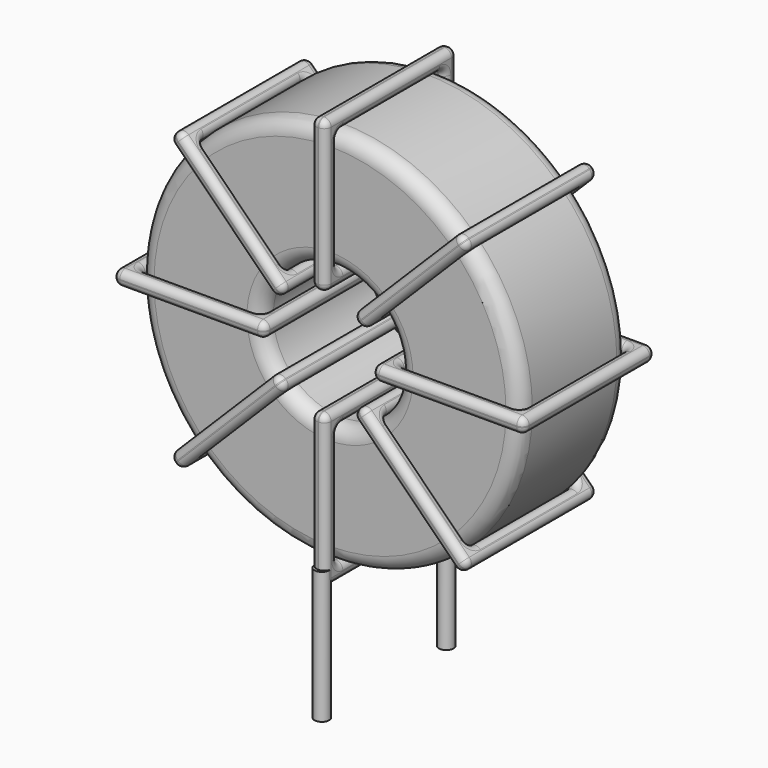
from build123d import *

# Parameters (mm, degrees)
SKETCH001_R       = 0.25
PAD001_DEPTH      = 0.5
PAD001_DEPTH_BACK = 4
SKETCH_R          = 6.5
SKETCH_R_2        = 2.333333
PAD_DEPTH         = 2.3
FILLET_R          = 0.5
SKETCH003_W       = 5.166667
SKETCH003_H       = 5.6
SKETCH003_W_2     = 4.166667
SKETCH003_H_2     = 4.6
PAD002_DEPTH      = 0.25
FILLET001_R       = 0.235
SKETCH004_W       = 5.166667
SKETCH004_H       = 5.6
SKETCH004_W_2     = 4.166667
SKETCH004_H_2     = 4.6
PAD003_DEPTH      = 0.25
FILLET002_R       = 0.235
SKETCH005_W       = 5.166667
SKETCH005_H       = 5.6
SKETCH005_W_2     = 4.166667
SKETCH005_H_2     = 4.6
PAD004_DEPTH      = 0.25
FILLET003_R       = 0.235
SKETCH006_W       = 5.166667
SKETCH006_H       = 5.6
SKETCH006_W_2     = 4.166667
SKETCH006_H_2     = 4.6
PAD005_DEPTH      = 0.25
FILLET004_R       = 0.235


with BuildPart() as pad001:
    # Sketch001 → Pad001 (new body, two sides)
    with BuildSketch(Plane.XY.offset(1)) as pad001_sk:
        Circle(SKETCH001_R)
        with Locations((0, -5.3)):
            Circle(SKETCH001_R)
    extrude(amount=PAD001_DEPTH)
    extrude(pad001_sk.sketch, amount=-PAD001_DEPTH_BACK)


with BuildPart() as fillet_body:
    # Sketch → Pad (new body, symmetric)
    with BuildSketch(Plane.XZ.offset(2.65)):
        with Locations((0, 8)):
            Circle(SKETCH_R)
        with Locations((0, 8)):
            Circle(SKETCH_R_2, mode=Mode.SUBTRACT)
    extrude(amount=PAD_DEPTH, both=True)

    # Fillet
    fillet_edges = [fillet_body.edges().sort_by_distance(p)[0] for p in [
        (-2.333333, -4.95, 8),
        (-6.5, -4.95, 8),
        (-6.5, -0.35, 8),
    ]]
    fillet(fillet_edges, radius=FILLET_R)


with BuildPart() as fillet001:
    # Sketch003 → Pad002 (new body, symmetric)
    with BuildSketch(Plane(origin=(0, 0.15, 8), x_dir=(1, 0, 0), z_dir=(0, 0, -1))):
        with Locations((-4.416666, 2.8)):
            Rectangle(SKETCH003_W, SKETCH003_H)
        with Locations((-4.416666, 2.8)):
            Rectangle(SKETCH003_W_2, SKETCH003_H_2, mode=Mode.SUBTRACT)
        with Locations((4.416666, 2.8)):
            Rectangle(SKETCH003_W, SKETCH003_H)
        with Locations((4.416666, 2.8)):
            Rectangle(SKETCH003_W_2, SKETCH003_H_2, mode=Mode.SUBTRACT)
    extrude(amount=PAD002_DEPTH, both=True)

    # Fillet001
    fillet001_edges = [fillet001.edges().sort_by_distance(p)[0] for p in [
        (-2.333333, -4.95, 8),
        (-2.333333, -0.35, 8),
        (-2.333333, -2.65, 8.25),
        (-2.333333, -2.65, 7.75),
        (-7, -5.45, 8),
        (-1.833333, -5.45, 8),
        (-4.416667, -5.45, 8.25),
        (-4.416667, -5.45, 7.75),
        (-1.833333, 0.15, 8),
        (-1.833333, -2.65, 8.25),
        (-1.833333, -2.65, 7.75),
        (2.333333, -4.95, 8),
        (6.5, -4.95, 8),
        (4.416667, -4.95, 8.25),
        (4.416667, -4.95, 7.75),
        (6.5, -0.35, 8),
        (6.5, -2.65, 8.25),
        (6.5, -2.65, 7.75),
        (1.833333, -5.45, 8),
        (7, -5.45, 8),
        (4.416667, -5.45, 8.25),
        (4.416667, -5.45, 7.75),
        (7, 0.15, 8),
        (7, -2.65, 8.25),
        (7, -2.65, 7.75),
        (-6.5, -4.95, 8),
        (-4.416667, -4.95, 8.25),
        (-4.416667, -4.95, 7.75),
        (2.333333, -0.35, 8),
        (2.333333, -2.65, 8.25),
        (2.333333, -2.65, 7.75),
        (4.416667, -0.35, 8.25),
        (4.416667, -0.35, 7.75),
        (1.833333, 0.15, 8),
        (4.416667, 0.15, 8.25),
        (4.416667, 0.15, 7.75),
        (1.833333, -2.65, 8.25),
        (1.833333, -2.65, 7.75),
        (-7, 0.15, 8),
        (-4.416667, 0.15, 8.25),
        (-4.416667, 0.15, 7.75),
        (-7, -2.65, 8.25),
        (-7, -2.65, 7.75),
        (-6.5, -0.35, 8),
        (-6.5, -2.65, 8.25),
        (-6.5, -2.65, 7.75),
        (-4.416667, -0.35, 8.25),
        (-4.416667, -0.35, 7.75),
    ]]
    fillet(fillet001_edges, radius=FILLET001_R)


with BuildPart() as fillet002:
    # Sketch004 → Pad003 (new body, symmetric)
    with BuildSketch(Plane(origin=(0, 0.15, 8), x_dir=(0.707108, 0, 0.707106), z_dir=(0.707106, 0, -0.707108))):
        with Locations((-4.416666, 2.8)):
            Rectangle(SKETCH004_W, SKETCH004_H)
        with Locations((-4.416666, 2.8)):
            Rectangle(SKETCH004_W_2, SKETCH004_H_2, mode=Mode.SUBTRACT)
        with Locations((4.416666, 2.8)):
            Rectangle(SKETCH004_W, SKETCH004_H)
        with Locations((4.416666, 2.8)):
            Rectangle(SKETCH004_W_2, SKETCH004_H_2, mode=Mode.SUBTRACT)
    extrude(amount=PAD003_DEPTH, both=True)

    # Fillet002
    fillet002_edges = [fillet002.edges().sort_by_distance(p)[0] for p in [
        (-4.596199, -4.95, 3.403811),
        (-1.649918, -0.35, 6.350086),
        (-3.299835, -0.35, 5.053726),
        (-2.946282, -0.35, 4.700172),
        (-4.949753, -5.45, 3.050258),
        (-1.296364, -5.45, 6.703639),
        (-3.299835, -5.45, 5.053726),
        (-2.946282, -5.45, 4.700172),
        (-1.296364, 0.15, 6.703639),
        (-1.47314, -2.65, 6.880416),
        (-1.119587, -2.65, 6.526862),
        (1.649918, -4.95, 9.649914),
        (4.596199, -4.95, 12.596189),
        (2.946282, -4.95, 11.299828),
        (3.299835, -4.95, 10.946274),
        (4.596199, -0.35, 12.596189),
        (4.419423, -2.65, 12.772966),
        (4.772976, -2.65, 12.419412),
        (1.296364, -5.45, 9.296361),
        (4.949753, -5.45, 12.949742),
        (2.946282, -5.45, 11.299828),
        (3.299835, -5.45, 10.946274),
        (4.949753, 0.15, 12.949742),
        (4.772977, -2.65, 13.126519),
        (5.12653, -2.65, 12.772965),
        (-4.596199, -0.35, 3.403811),
        (-4.772976, -2.65, 3.580588),
        (-4.419423, -2.65, 3.227034),
        (1.649918, -0.35, 9.649914),
        (1.473141, -2.65, 9.826691),
        (1.826694, -2.65, 9.473137),
        (2.946282, -0.35, 11.299828),
        (3.299835, -0.35, 10.946274),
        (1.296364, 0.15, 9.296361),
        (2.946282, 0.15, 11.299828),
        (3.299835, 0.15, 10.946274),
        (1.119587, -2.65, 9.473138),
        (1.47314, -2.65, 9.119584),
        (-4.949753, 0.15, 3.050258),
        (-3.299835, 0.15, 5.053726),
        (-2.946282, 0.15, 4.700172),
        (-5.12653, -2.65, 3.227035),
        (-4.772977, -2.65, 2.873481),
        (-1.649918, -4.95, 6.350086),
        (-3.299835, -4.95, 5.053726),
        (-2.946282, -4.95, 4.700172),
        (-1.826694, -2.65, 6.526863),
        (-1.473141, -2.65, 6.173309),
    ]]
    fillet(fillet002_edges, radius=FILLET002_R)


with BuildPart() as fillet003:
    # Sketch005 → Pad004 (new body, symmetric)
    with BuildSketch(Plane(origin=(0, 0.15, 8), x_dir=(0.707108, 0, -0.707106), z_dir=(-0.707106, 0, -0.707108))):
        with Locations((-4.416666, 2.8)):
            Rectangle(SKETCH005_W, SKETCH005_H)
        with Locations((-4.416666, 2.8)):
            Rectangle(SKETCH005_W_2, SKETCH005_H_2, mode=Mode.SUBTRACT)
        with Locations((4.416666, 2.8)):
            Rectangle(SKETCH005_W, SKETCH005_H)
        with Locations((4.416666, 2.8)):
            Rectangle(SKETCH005_W_2, SKETCH005_H_2, mode=Mode.SUBTRACT)
    extrude(amount=PAD004_DEPTH, both=True)

    # Fillet003
    fillet003_edges = [fillet003.edges().sort_by_distance(p)[0] for p in [
        (-4.596199, -4.95, 12.596189),
        (-1.649918, -0.35, 9.649914),
        (-2.946282, -0.35, 11.299828),
        (-3.299835, -0.35, 10.946274),
        (-4.949753, -5.45, 12.949742),
        (-1.296364, -5.45, 9.296361),
        (-2.946282, -5.45, 11.299828),
        (-3.299835, -5.45, 10.946274),
        (-1.296364, 0.15, 9.296361),
        (-1.119587, -2.65, 9.473138),
        (-1.47314, -2.65, 9.119584),
        (1.649918, -0.35, 6.350086),
        (1.649918, -4.95, 6.350086),
        (1.826694, -2.65, 6.526863),
        (1.473141, -2.65, 6.173309),
        (4.596199, -0.35, 3.403811),
        (3.299835, -0.35, 5.053726),
        (2.946282, -0.35, 4.700172),
        (1.296364, -5.45, 6.703639),
        (4.949753, -5.45, 3.050258),
        (3.299835, -5.45, 5.053726),
        (2.946282, -5.45, 4.700172),
        (4.949753, 0.15, 3.050258),
        (5.12653, -2.65, 3.227035),
        (4.772977, -2.65, 2.873481),
        (-4.596199, -0.35, 12.596189),
        (-4.419423, -2.65, 12.772966),
        (-4.772976, -2.65, 12.419412),
        (4.596199, -4.95, 3.403811),
        (3.299835, -4.95, 5.053726),
        (2.946282, -4.95, 4.700172),
        (4.772976, -2.65, 3.580588),
        (4.419423, -2.65, 3.227034),
        (1.296364, 0.15, 6.703639),
        (3.299835, 0.15, 5.053726),
        (2.946282, 0.15, 4.700172),
        (1.47314, -2.65, 6.880416),
        (1.119587, -2.65, 6.526862),
        (-4.949753, 0.15, 12.949742),
        (-2.946282, 0.15, 11.299828),
        (-3.299835, 0.15, 10.946274),
        (-4.772977, -2.65, 13.126519),
        (-5.12653, -2.65, 12.772965),
        (-1.649918, -4.95, 9.649914),
        (-2.946282, -4.95, 11.299828),
        (-3.299835, -4.95, 10.946274),
        (-1.473141, -2.65, 9.826691),
        (-1.826694, -2.65, 9.473137),
    ]]
    fillet(fillet003_edges, radius=FILLET003_R)


with BuildPart() as fillet004:
    # Sketch006 → Pad005 (new body, symmetric)
    with BuildSketch(Plane(origin=(0, 0.15, 8), x_dir=(0, 0, 1), z_dir=(1, 0, 0))):
        with Locations((-4.416666, 2.8)):
            Rectangle(SKETCH006_W, SKETCH006_H)
        with Locations((-4.416666, 2.8)):
            Rectangle(SKETCH006_W_2, SKETCH006_H_2, mode=Mode.SUBTRACT)
        with Locations((4.416666, 2.8)):
            Rectangle(SKETCH006_W, SKETCH006_H)
        with Locations((4.416666, 2.8)):
            Rectangle(SKETCH006_W_2, SKETCH006_H_2, mode=Mode.SUBTRACT)
    extrude(amount=PAD005_DEPTH, both=True)

    # Fillet004
    fillet004_edges = [fillet004.edges().sort_by_distance(p)[0] for p in [
        (0, -4.95, 5.666667),
        (0, -0.35, 5.666667),
        (-0.25, -2.65, 5.666667),
        (0.25, -2.65, 5.666667),
        (0, -5.45, 1),
        (0, -5.45, 6.166667),
        (-0.25, -5.45, 3.583333),
        (0.25, -5.45, 3.583333),
        (0, 0.15, 6.166667),
        (-0.25, -2.65, 6.166667),
        (0.25, -2.65, 6.166667),
        (0, -4.95, 10.333333),
        (0, -4.95, 14.5),
        (-0.25, -4.95, 12.416667),
        (0.25, -4.95, 12.416667),
        (0, -0.35, 14.5),
        (-0.25, -2.65, 14.5),
        (0.25, -2.65, 14.5),
        (0, -5.45, 9.833333),
        (0, -5.45, 15),
        (-0.25, -5.45, 12.416667),
        (0.25, -5.45, 12.416667),
        (0, 0.15, 15),
        (-0.25, -2.65, 15),
        (0.25, -2.65, 15),
        (0, -4.95, 1.5),
        (-0.25, -4.95, 3.583333),
        (0.25, -4.95, 3.583333),
        (0, -0.35, 10.333333),
        (-0.25, -2.65, 10.333333),
        (0.25, -2.65, 10.333333),
        (-0.25, -0.35, 12.416667),
        (0.25, -0.35, 12.416667),
        (0, 0.15, 9.833333),
        (-0.25, 0.15, 12.416667),
        (0.25, 0.15, 12.416667),
        (-0.25, -2.65, 9.833333),
        (0.25, -2.65, 9.833333),
        (0, 0.15, 1),
        (-0.25, 0.15, 3.583333),
        (0.25, 0.15, 3.583333),
        (-0.25, -2.65, 1),
        (0.25, -2.65, 1),
        (0, -0.35, 1.5),
        (-0.25, -2.65, 1.5),
        (0.25, -2.65, 1.5),
        (-0.25, -0.35, 3.583333),
        (0.25, -0.35, 3.583333),
    ]]
    fillet(fillet004_edges, radius=FILLET004_R)


solid = Compound([pad001.part, fillet_body.part, fillet001.part, fillet002.part, fillet003.part, fillet004.part])
